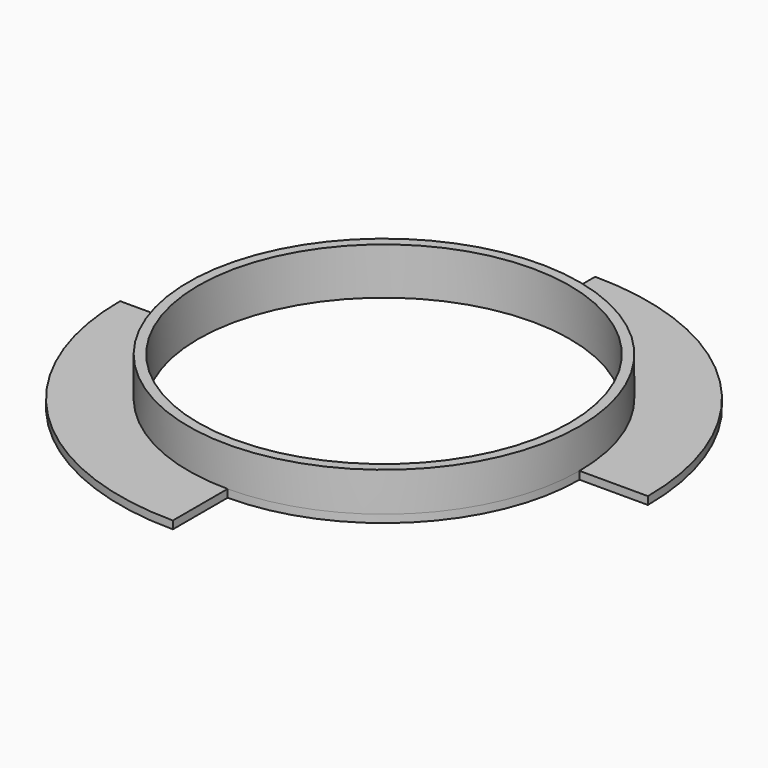
from build123d import *

# Parameters (mm, degrees)
PAD_DEPTH    = 0.8
SKETCH001_R  = 20
PAD001_DEPTH = 4
SKETCH002_R  = 19
POCKET_DEPTH = 4.801


with BuildPart() as part:
    # Sketch → Pad (new body)
    with BuildSketch(Plane.XY):
        with BuildLine():
            ThreePointArc((0, 20), (-14.142136, 14.142136), (-20, 0))
            Line((-27, 0), (-20, 0))
            ThreePointArc((-27, 0), (-19.091883, -19.091883), (0, -27))
            Line((0, -27), (0, -20))
            ThreePointArc((0, -20), (14.142136, -14.142136), (20, 0))
            Line((27, 0), (20, 0))
            ThreePointArc((27, 0), (19.091883, 19.091883), (0, 27))
            Line((0, 27), (0, 20))
        make_face()
    extrude(amount=PAD_DEPTH)

    # Sketch001 → Pad001 (new body)
    with BuildSketch(Plane.XY.offset(0.8)):
        Circle(SKETCH001_R)
    extrude(amount=PAD001_DEPTH)

    # Sketch002 → Pocket (cut, through all)
    with BuildSketch(Plane.XY.offset(4.8)):
        Circle(SKETCH002_R)
    extrude(amount=-POCKET_DEPTH, mode=Mode.SUBTRACT)


solid = part.part
